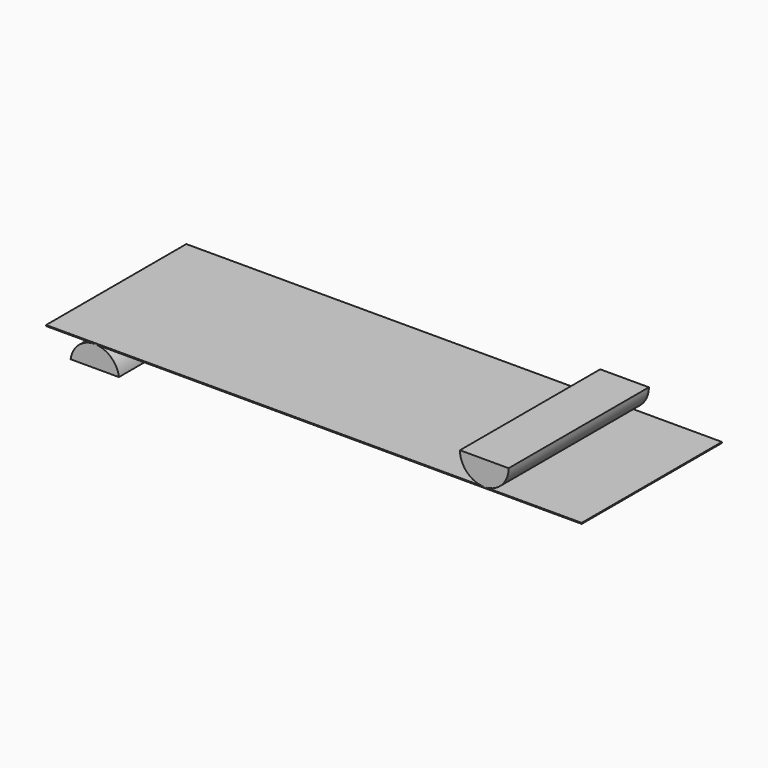
from build123d import *

# Parameters (mm, degrees)
F1_DEPTH = 180


with BuildPart() as f1:
    # F0 (on Front) → F1 (new body)
    with BuildSketch(Plane.XZ):
        with BuildLine():
            ThreePointArc((437.662649, 16.591785), (444.984979, -1.085884), (462.662649, -8.408215))
            ThreePointArc((462.662649, -8.408215), (480.340319, -1.085884), (487.662649, 16.591785))
            Line((487.662649, 16.591785), (437.662649, 16.591785))
        make_face()
        Polygon((12.662649, -8.408215), (12.662649, -9.408215), (62.662649, -9.408215), (562.662649, -9.408215), (562.662649, -8.408215), (462.662649, -8.408215), align=None)
        with BuildLine():
            ThreePointArc((87.45639, -31.203465), (79.168424, -15.63165), (62.662649, -9.408215))
            ThreePointArc((62.662649, -9.408215), (46.156873, -15.63165), (37.868908, -31.203465))
            Line((37.868908, -31.203465), (87.45639, -31.203465))
        make_face()
    extrude(amount=F1_DEPTH)


solid = f1.part
